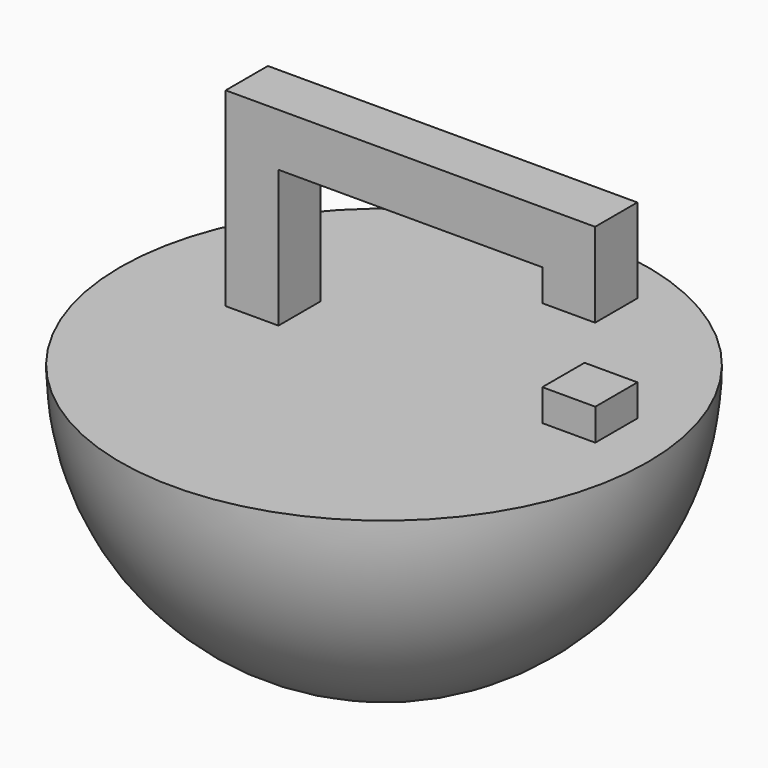
from build123d import *

# Parameters (mm, degrees)
SKETCH001_W            = 5.018169
SKETCH001_H            = 3
EXTRUDE001_DEPTH       = 5
BOX_W                  = 210
BOX_H                  = 320
BOX_DEPTH              = 320
CUT001_PLACEMENT_ANGLE = 90
EXTRUDE_DEPTH          = 5


with BuildPart() as extrude001:
    # Sketch001 → Extrude001 (new body)
    with BuildSketch(Plane.XZ):
        with Locations((27.509085, -11.5)):
            Rectangle(SKETCH001_W, SKETCH001_H)
    extrude(amount=-EXTRUDE001_DEPTH)


with BuildPart() as cubo:
    # Box → Box (new body)
    with BuildSketch(Plane(origin=(0, -151, -150), x_dir=(1, 0, 0), z_dir=(0, 0, 1))):
        with Locations((105, 160)):
            Rectangle(BOX_W, BOX_H)
    extrude(amount=BOX_DEPTH)


with BuildPart() as cut:
    # Sphere → Sphere (revolve)
    with BuildSketch(Plane.XZ):
        with BuildLine():
            ThreePointArc((0, -150), (150, 0), (0, 150))
            Line((0, 150), (0, -150))
        make_face()
    revolve(axis=Axis((0, 0, 0), (0, 0, 1)))

    # Cut: cut Cubo
    add(cubo.part, mode=Mode.SUBTRACT)


with BuildPart() as cut001:
    # Sphere001 → Sphere001 (revolve)
    with BuildSketch(Plane.XZ):
        with BuildLine():
            ThreePointArc((0, -25), (25, 0), (0, 25))
            Line((0, 25), (0, -25))
        make_face()
    revolve(axis=Axis((0, 0, 0), (0, 0, 1)))

    # Cut001: cut Cut
    add(cut.part, mode=Mode.SUBTRACT)


with BuildPart() as cut001_1:
    # Cut001 placement: moved
    add(cut001.part.moved(Location((10, 0, -13))).rotate(Axis((10, 0, -13), (0, 1, 0)), CUT001_PLACEMENT_ANGLE))


with BuildPart() as fusion001:
    # Sketch → Extrude (new body)
    with BuildSketch(Plane.XZ):
        Polygon((0, 0), (25, 0), (25, -3), (30, -3), (30, 5), (-5, 5), (-5, -13), (0, -13), align=None)
    extrude(amount=-EXTRUDE_DEPTH)

    # Fusion: union Cut001
    add(cut001_1.part)

    # Fusion001: union Extrude001
    add(extrude001.part)


solid = fusion001.part
